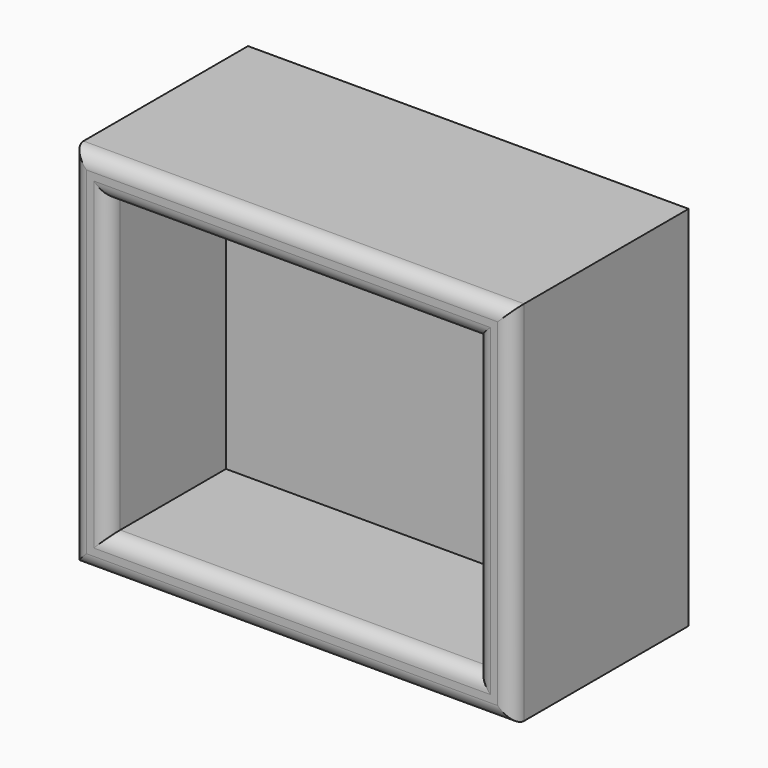
from build123d import *

# Parameters (mm, degrees)
F0_W     = 152.4
F0_H     = 127
F1_DEPTH = 76.2
F2_W     = 127
F2_H     = 101.6
F3_DEPTH = 50.8
F4_R     = 5.08


with BuildPart() as f1:
    # F0 (on Front) → F1 (new body)
    with BuildSketch(Plane.XZ):
        Rectangle(F0_W, F0_H)
    extrude(amount=-F1_DEPTH)

    # F2 (on face) → F3 (cut)
    with BuildSketch(Plane.XZ):
        Rectangle(F2_W, F2_H)
    extrude(amount=-F3_DEPTH, mode=Mode.SUBTRACT)

    # F4
    f4_edges = [f1.edges().sort_by_distance(p)[0] for p in [
        (0, 0, 50.8),
        (0, 0, 63.5),
        (63.5, 0, 0),
        (0, 0, -50.8),
        (-63.5, 0, 0),
        (-76.2, 0, 0),
        (0, 0, -63.5),
        (76.2, 0, 0),
    ]]
    fillet(f4_edges, radius=F4_R)


solid = f1.part
